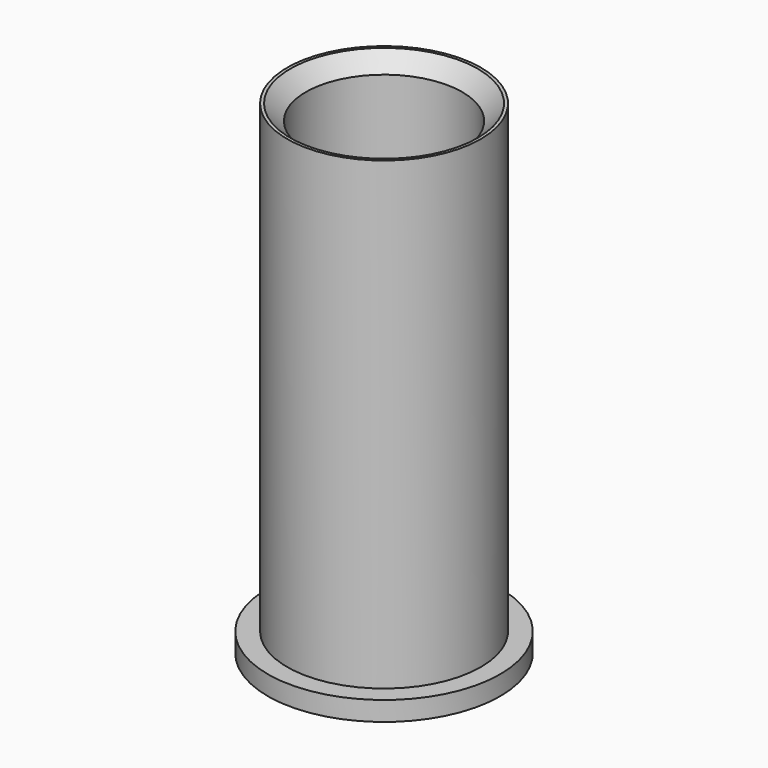
from build123d import *

# Parameters (mm, degrees)
F0_R     = 38.1
F1_DEPTH = 6.35
F2_R     = 31.75
F2_R_2   = 25.654
F3_DEPTH = 152.4
F4_R     = 3.175
F5_DEPTH = 25.4
F6_SIZE  = 5.08


with BuildPart() as f1:
    # F0 (on Top) → F1 (new body)
    with BuildSketch(Plane.XY):
        Circle(F0_R)
    extrude(amount=F1_DEPTH)

    # F2 (on face) → F3 (join)
    with BuildSketch(Plane.XY.offset(6.35)):
        Circle(F2_R)
        Circle(F2_R_2, mode=Mode.SUBTRACT)
    extrude(amount=F3_DEPTH)

    # F4 (on face) → F5 (cut)
    with BuildSketch(Plane.XY.offset(6.35)):
        Circle(F4_R)
    extrude(amount=-F5_DEPTH, mode=Mode.SUBTRACT)

    # F6
    f6_edges = [f1.edges().sort_by_distance(p)[0] for p in [
        (-25.654, 0, 158.75),
    ]]
    chamfer(f6_edges, length=F6_SIZE)


solid = f1.part
